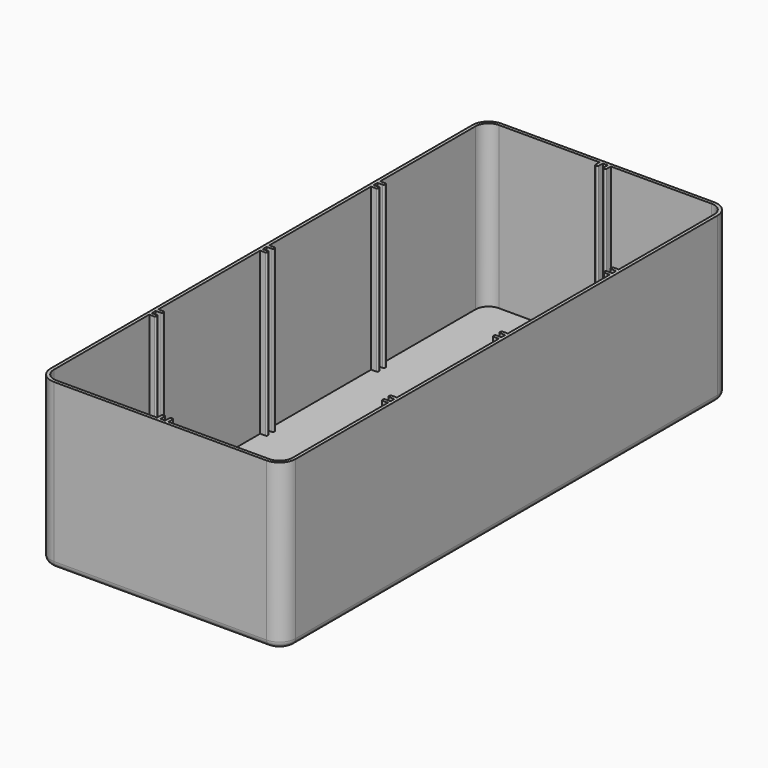
from build123d import *

# Parameters (mm, degrees)
PAD_DEPTH     = 51
THICKNESS_T   = -1
SKETCH001_W   = 2
SKETCH001_H   = 1
SKETCH001_W_2 = 1
SKETCH001_H_2 = 2
PAD001_DEPTH  = 50
FILLET_R      = 2
FILLET003_R   = 0.4


with BuildPart() as part:
    # Sketch → Pad (new body)
    with BuildSketch(Plane.XY):
        with BuildLine():
            Line((-33, 86.75), (33, 86.75))
            ThreePointArc((38, 81.75), (36.535534, 85.285534), (33, 86.75))
            Line((38, 81.75), (38, -81.75))
            ThreePointArc((33, -86.75), (36.535534, -85.285534), (38, -81.75))
            Line((33, -86.75), (-33, -86.75))
            ThreePointArc((-38, -81.75), (-36.535534, -85.285534), (-33, -86.75))
            Line((-38, -81.75), (-38, 81.75))
            ThreePointArc((-33, 86.75), (-36.535534, 85.285534), (-38, 81.75))
        make_face()
    extrude(amount=PAD_DEPTH)

    # Thickness
    thickness_openings = [part.faces().sort_by_distance(p)[0] for p in [
        (0, 0, 51),
    ]]
    offset(amount=THICKNESS_T, openings=thickness_openings)

    # Sketch001 (on Face19 of Thickness) → Pad001 (join)
    with BuildSketch(Plane.XY.offset(1)):
        with Locations((-36, 44.25)):
            Rectangle(SKETCH001_W, SKETCH001_H)
        with Locations((-36, 41.75)):
            Rectangle(SKETCH001_W, SKETCH001_H)
        with Locations((36, 44.25)):
            Rectangle(SKETCH001_W, SKETCH001_H)
        with Locations((36, 41.75)):
            Rectangle(SKETCH001_W, SKETCH001_H)
        with Locations((-36, -41.75)):
            Rectangle(SKETCH001_W, SKETCH001_H)
        with Locations((-36, -44.25)):
            Rectangle(SKETCH001_W, SKETCH001_H)
        with Locations((-36, 1.25)):
            Rectangle(SKETCH001_W, SKETCH001_H)
        with Locations((-36, -1.25)):
            Rectangle(SKETCH001_W, SKETCH001_H)
        with Locations((36, 1.25)):
            Rectangle(SKETCH001_W, SKETCH001_H)
        with Locations((36, -1.25)):
            Rectangle(SKETCH001_W, SKETCH001_H)
        with Locations((36, -41.75)):
            Rectangle(SKETCH001_W, SKETCH001_H)
        with Locations((36, -44.25)):
            Rectangle(SKETCH001_W, SKETCH001_H)
        with Locations((-1.25, -84.75)):
            Rectangle(SKETCH001_W_2, SKETCH001_H_2)
        with Locations((1.25, -84.75)):
            Rectangle(SKETCH001_W_2, SKETCH001_H_2)
        with Locations((-1.25, 84.75)):
            Rectangle(SKETCH001_W_2, SKETCH001_H_2)
        with Locations((1.25, 84.75)):
            Rectangle(SKETCH001_W_2, SKETCH001_H_2)
    extrude(amount=PAD001_DEPTH)

    # Fillet
    fillet_edges = [part.edges().sort_by_distance(p)[0] for p in [
        (0, 86.75, 0),
    ]]
    fillet(fillet_edges, radius=FILLET_R)

    # Fillet003
    fillet003_edges = [part.edges().sort_by_distance(p)[0] for p in [
        (1.75, -83.75, 26),
        (0.75, -83.75, 26),
        (-0.75, -83.75, 26),
        (-1.75, -83.75, 26),
        (35, 44.75, 26),
        (35, 43.75, 26),
        (35, 42.25, 26),
        (35, 41.25, 26),
        (35, 1.75, 26),
        (35, 0.75, 26),
        (35, -0.75, 26),
        (35, -1.75, 26),
        (35, -41.25, 26),
        (35, -42.25, 26),
        (35, -43.75, 26),
        (35, -44.75, 26),
        (-35, 44.75, 26),
        (-35, 43.75, 26),
        (-35, 42.25, 26),
        (-35, 41.25, 26),
        (-35, 1.75, 26),
        (-35, 0.75, 26),
        (-35, -0.75, 26),
        (-35, -1.75, 26),
        (-35, -41.25, 26),
        (-35, -42.25, 26),
        (-35, -43.75, 26),
        (-35, -44.75, 26),
        (1.75, 83.75, 26),
        (0.75, 83.75, 26),
        (-0.75, 83.75, 26),
        (-1.75, 83.75, 26),
    ]]
    fillet(fillet003_edges, radius=FILLET003_R)


with BuildPart() as part_1:
    # Body placement: moved
    add(part.part.moved(Location((0, 0, -295))))


solid = part_1.part
